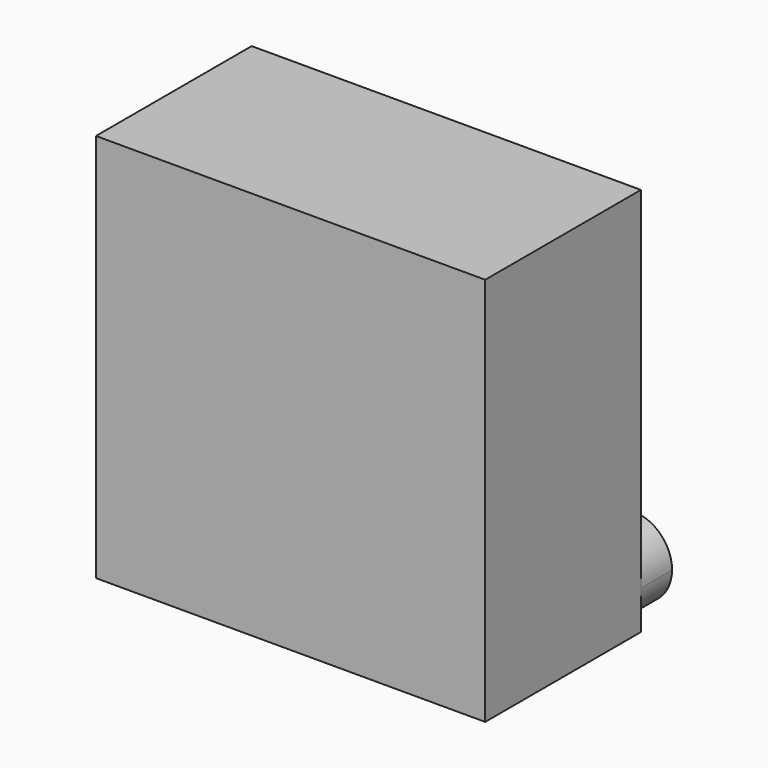
from build123d import *

# Parameters (mm, degrees)
F1_DEPTH = 25
F2_DEPTH = 5


with BuildPart() as f1:
    # F0 (on Front) → F1 (new body)
    with BuildSketch(Plane.XZ):
        with BuildLine():
            Line((25, -20), (25, 25))
            Line((25, 25), (-25, 25))
            Line((-25, 25), (-25, -25))
            Line((-25, -25), (20, -25))
            ThreePointArc((20, -25), (16.464466, -16.464466), (25, -20))
        make_face()
        with BuildLine():
            Line((25, -25), (25, -20))
            ThreePointArc((25, -20), (23.535534, -23.535534), (20, -25))
            Line((20, -25), (25, -25))
        make_face()
        with BuildLine():
            ThreePointArc((20, -25), (23.535534, -23.535534), (25, -20))
            ThreePointArc((25, -20), (16.464466, -16.464466), (20, -25))
        make_face()
    extrude(amount=F1_DEPTH)

    # F0 (on Front) → F2 (join)
    with BuildSketch(Plane.XZ):
        with BuildLine():
            ThreePointArc((20, -25), (23.535534, -23.535534), (25, -20))
            ThreePointArc((25, -20), (16.464466, -16.464466), (20, -25))
        make_face()
    extrude(amount=-F2_DEPTH)


solid = f1.part
